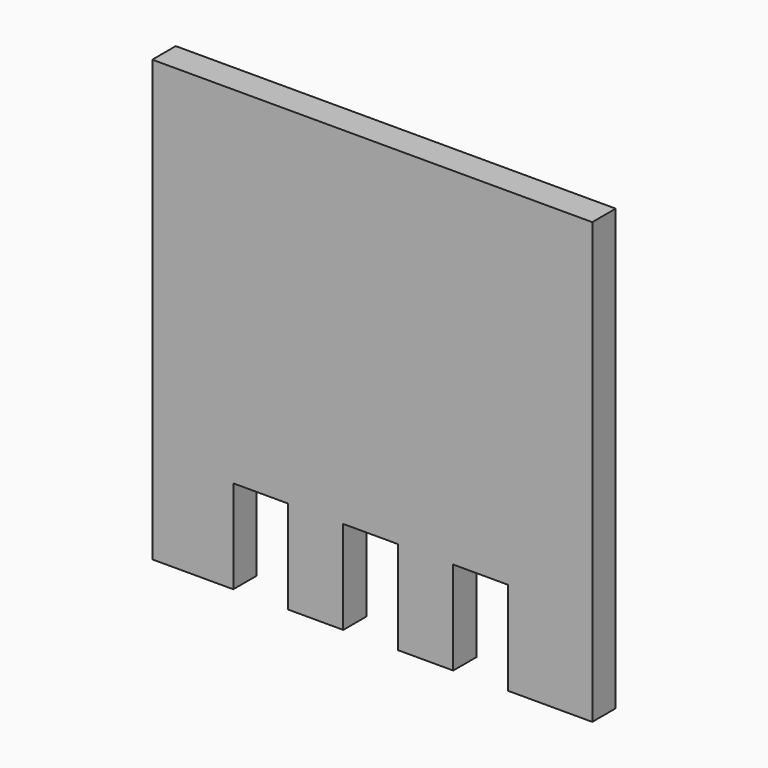
from build123d import *

# Parameters (mm, degrees)
F1_DEPTH = 10.16


with BuildPart() as f1:
    # F0 (on Front) → F1 (new body, symmetric)
    with BuildSketch(Plane.XZ):
        Polygon((158.686374, 147.795809), (-146.113626, 147.795809), (-146.113626, -157.004191), (-90.020779, -157.004191), (-90.020779, -92.344157), (-51.920779, -92.344157), (-51.920779, -157.004191), (-13.820779, -157.004191), (-13.820779, -92.344157), (24.279221, -92.344157), (24.279221, -157.004191), (62.379221, -157.004191), (62.379221, -92.344157), (100.479221, -92.344157), (100.479221, -157.004191), (158.686374, -157.004191), align=None)
    extrude(amount=F1_DEPTH, both=True)


solid = f1.part
